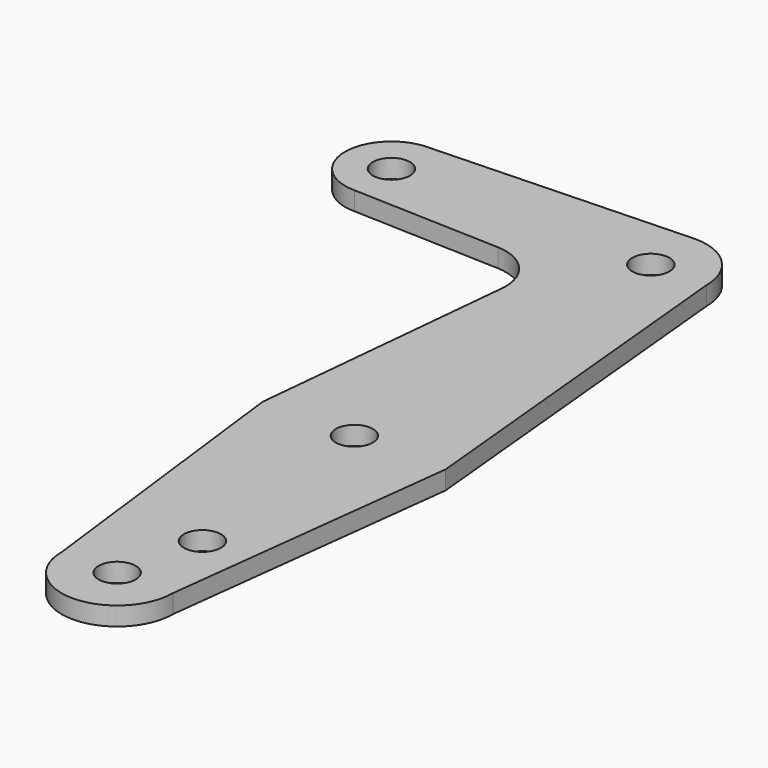
from build123d import *

# Parameters (mm, degrees)
F0_R     = 3.175
F1_DEPTH = 3.175


with BuildPart() as f1:
    # F0 (on Top) → F1 (new body)
    with BuildSketch(Plane.XY):
        with BuildLine():
            Line((43.77051, 9.500732), (0, 7.9375))
            ThreePointArc((0, 7.9375), (-7.9375, 0), (0, -7.9375))
            Line((0, -7.9375), (25.320855, -8.841816))
            ThreePointArc((25.320855, -8.841816), (31.19345, -11.634219), (33.181066, -17.825685))
            Line((33.181066, -17.825685), (28.712627, -63.5))
            Line((28.712627, -63.5), (34.925, -114.3))
            ThreePointArc((34.925, -114.3), (44.45, -123.825), (53.975, -114.3))
            Line((53.975, -114.3), (60.071, -63.5))
            Line((60.071, -63.5), (53.975, 0))
            ThreePointArc((53.975, 0), (51.185192, 6.735192), (44.45, 9.525))
            Line((44.45, 9.525), (43.77051, 9.500732))
        make_face()
        with Locations((44.45, -114.3)):
            Circle(F0_R, mode=Mode.SUBTRACT)
        with Locations((47.625, -100.0125)):
            Circle(F0_R, mode=Mode.SUBTRACT)
        with Locations((44.45, -63.5)):
            Circle(F0_R, mode=Mode.SUBTRACT)
        Circle(F0_R, mode=Mode.SUBTRACT)
        with Locations((44.45, 0)):
            Circle(F0_R, mode=Mode.SUBTRACT)
    extrude(amount=F1_DEPTH)


solid = f1.part
